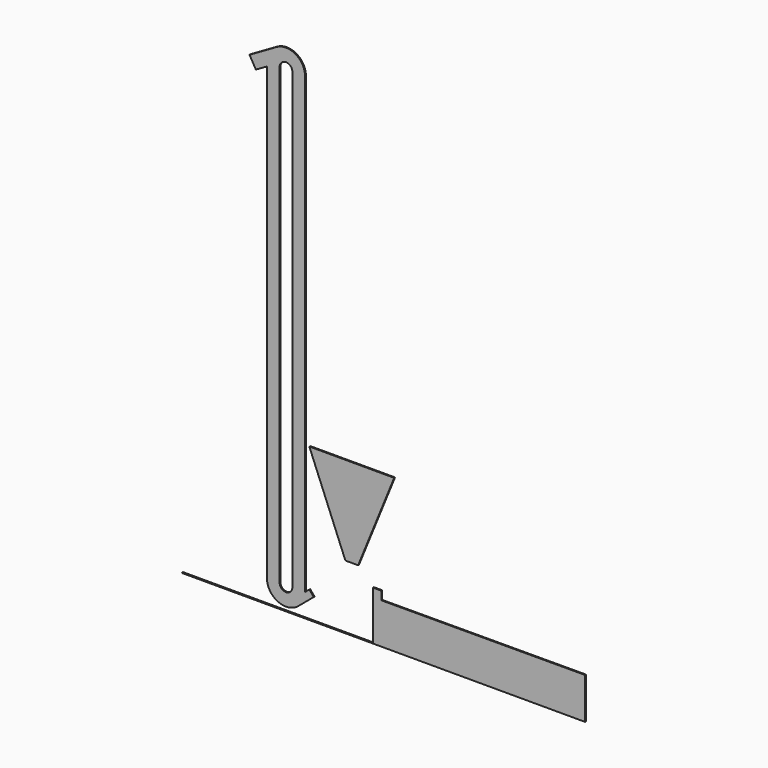
from build123d import *

# Parameters (mm, degrees)
F1_DEPTH = 25


with BuildPart() as f1:
    # F0 (on Front) → F1 (new body)
    with BuildSketch(Plane.XZ):
        Polygon((2000, 3590), (0, 3590), (244.019139, 2990), (1755.980861, 2990), align=None)
        Polygon((1755.980861, 2990), (244.019139, 2990), (850, 1500), (1150, 1500), align=None)
        Polygon((1500.004951, 0), (-3000, 0), (-3000, -10), (6500.021454, -10), (6500.021454, 0), (6497.547658, 962.84313), (1697.5635, 950.510715), (1697.04965, 1150.510055), (1497.05031, 1149.996204), align=None)
        with BuildLine():
            Line((-100, 539.228292), (-100, 11236.60254))
            ThreePointArc((-100, 11236.60254), (-325, 11626.313972), (-775, 11626.313972))
            Line((-775, 11626.313972), (-1409.807621, 11259.807621))
            Line((-1409.807621, 11259.807621), (-1259.807621, 11000))
            Line((-1259.807621, 11000), (-1000, 11150))
            Line((-1000, 11150), (-1000, 539.228292))
            ThreePointArc((-1000, 539.228292), (-740.178218, 131.389788), (-260.745576, 194.508292))
            Line((-260.745576, 194.508292), (103.325264, 500))
            Line((103.325264, 500), (0, 623.138255))
            Line((0, 623.138255), (-100, 539.228292))
        make_face()
        with BuildLine():
            Line((-400, 11236.60254), (-400, 539.228292))
            ThreePointArc((-400, 539.228292), (-550, 389.228292), (-700, 539.228292))
            Line((-700, 539.228292), (-700, 11236.60254))
            ThreePointArc((-700, 11236.60254), (-550, 11386.60254), (-400, 11236.60254))
        make_face(mode=Mode.SUBTRACT)
    extrude(amount=F1_DEPTH)


solid = f1.part
